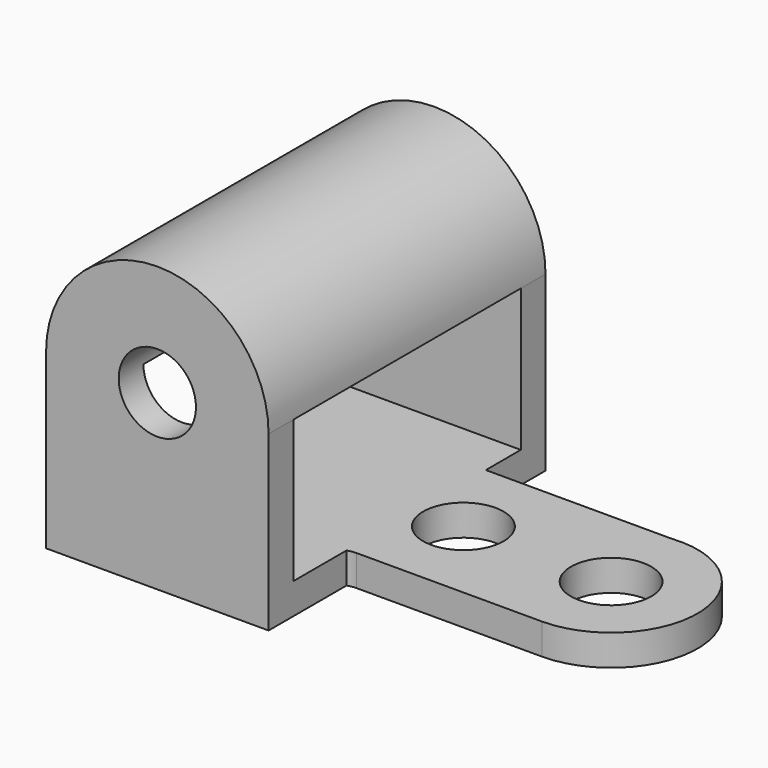
from build123d import *

# Parameters (mm, degrees)
F1_W     = 53.042872
F1_H     = 10.270788
F1_R     = 10.3251
F1_W_2   = 50.8
F1_H_2   = 6.999225
F2_DEPTH = 7.9375
F0_R     = 9.92251
F3_DEPTH = 88.9
F4_W     = 73.025
F4_H     = 36.5125
F5_DEPTH = 57.15


with BuildPart() as f2:
    # F1 (on Top) → F2 (new body)
    with BuildSketch(Plane.XY):
        with Locations((26.521436, 5.135394)):
            Rectangle(F1_W, F1_H)
        with BuildLine():
            Line((0, 10.270788), (53.042872, 10.270788))
            Line((53.042872, 10.270788), (53.042872, 19.05))
            ThreePointArc((53.042872, 19.05), (54.902744, 23.540128), (59.392872, 25.4))
            Line((59.392872, 25.4), (107.017872, 25.4))
            ThreePointArc((107.017872, 25.4), (129.214489, 48.74787), (104.775, 69.736539))
            Line((104.775, 69.736539), (57.15, 69.736539))
            ThreePointArc((57.15, 69.736539), (52.659872, 71.596411), (50.8, 76.086539))
            Line((50.8, 76.086539), (50.8, 81.900775))
            Line((50.8, 81.900775), (0, 81.900775))
            Line((0, 81.900775), (0, 10.270788))
        make_face()
        with Locations((68.917872, 47.824372)):
            Circle(F1_R, mode=Mode.SUBTRACT)
        with Locations((107.017872, 47.625)):
            Circle(F1_R, mode=Mode.SUBTRACT)
        with Locations((25.4, 85.400387)):
            Rectangle(F1_W_2, F1_H_2)
    extrude(amount=F2_DEPTH)

    # F0 (on Front) → F3 (join)
    with BuildSketch(Plane.XZ):
        with BuildLine():
            Line((0, 44.45), (0, 0))
            Line((0, 0), (57.15, 0))
            Line((57.15, 0), (57.15, 44.45))
            ThreePointArc((57.15, 44.45), (28.575, 73.025), (0, 44.45))
        make_face()
        with Locations((28.575, 44.45)):
            Circle(F0_R, mode=Mode.SUBTRACT)
    extrude(amount=-F3_DEPTH)

    # F4 (on face) → F5 (cut, through all)
    with BuildSketch(Plane.YZ.offset(57.15)):
        with Locations((44.45, 26.19375)):
            Rectangle(F4_W, F4_H)
    extrude(amount=-F5_DEPTH, mode=Mode.SUBTRACT)


solid = f2.part
